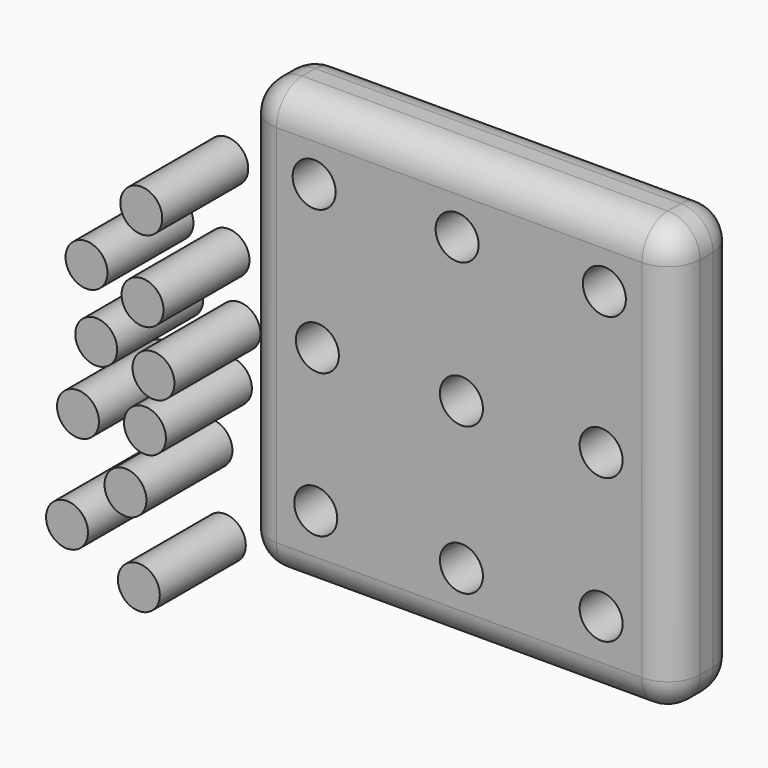
from build123d import *

# Parameters (mm, degrees)
F0_W     = 101.6
F0_H     = 101.6
F1_DEPTH = 19.05
F2_R     = 5.08
F3_DEPTH = 11.43
F4_R     = 4.953
F5_DEPTH = 25.4
F6_R     = 7.62


with BuildPart() as f1:
    # F0 (on Front) → F1 (new body)
    with BuildSketch(Plane.XZ):
        with Locations((19.840664, 18.371951)):
            Rectangle(F0_W, F0_H)
    extrude(amount=F1_DEPTH)

    # F2 (on face) → F3 (cut)
    with BuildSketch(Plane.XZ.offset(19.05)):
        with Locations((-14.449336, 52.661951)):
            Circle(F2_R)
        with Locations((19.332664, 52.661951)):
            Circle(F2_R)
        with Locations((54.130664, 52.661951)):
            Circle(F2_R)
        with Locations((53.368664, 18.879951)):
            Circle(F2_R)
        with Locations((20.348664, 18.879951)):
            Circle(F2_R)
        with Locations((-13.687336, 18.879951)):
            Circle(F2_R)
        with Locations((-14.068336, -15.156049)):
            Circle(F2_R)
        with Locations((20.348664, -15.918049)):
            Circle(F2_R)
        with Locations((53.368664, -15.156049)):
            Circle(F2_R)
    extrude(amount=-F3_DEPTH, mode=Mode.SUBTRACT)

    # F6
    f6_edges = [f1.edges().sort_by_distance(p)[0] for p in [
        (70.640664, -9.525, -32.428049),
        (70.640664, -9.525, 69.171951),
        (70.640664, 0, 18.371951),
        (70.640664, -19.05, 18.371951),
        (-30.959336, -9.525, 69.171951),
        (19.840664, 0, 69.171951),
        (19.840664, -19.05, 69.171951),
        (-30.959336, -9.525, -32.428049),
        (-30.959336, 0, 18.371951),
        (-30.959336, -19.05, 18.371951),
        (19.840664, 0, -32.428049),
        (19.840664, -19.05, -32.428049),
    ]]
    fillet(f6_edges, radius=F6_R)


with BuildPart() as f5:
    # F4 (on Front) → F5 (new body)
    with BuildSketch(Plane.XZ):
        with Locations((-50.222103, 38.134262)):
            Circle(F4_R)
        with Locations((-63.173361, 22.592753)):
            Circle(F4_R)
        with Locations((-60.870919, 7.339047)):
            Circle(F4_R)
        with Locations((-49.934298, 19.139083)):
            Circle(F4_R)
        with Locations((-47.344048, 4.748795)):
            Circle(F4_R)
        with Locations((-65.188006, -9.065881)):
            Circle(F4_R)
        with Locations((-49.358688, -7.339047)):
            Circle(F4_R)
        with Locations((-53.963579, -21.729333)):
            Circle(F4_R)
        with Locations((-50.797716, -40.436711)):
            Circle(F4_R)
        with Locations((-67.778252, -32.953762)):
            Circle(F4_R)
    extrude(amount=F5_DEPTH)


solid = Compound([f1.part, f5.part])
